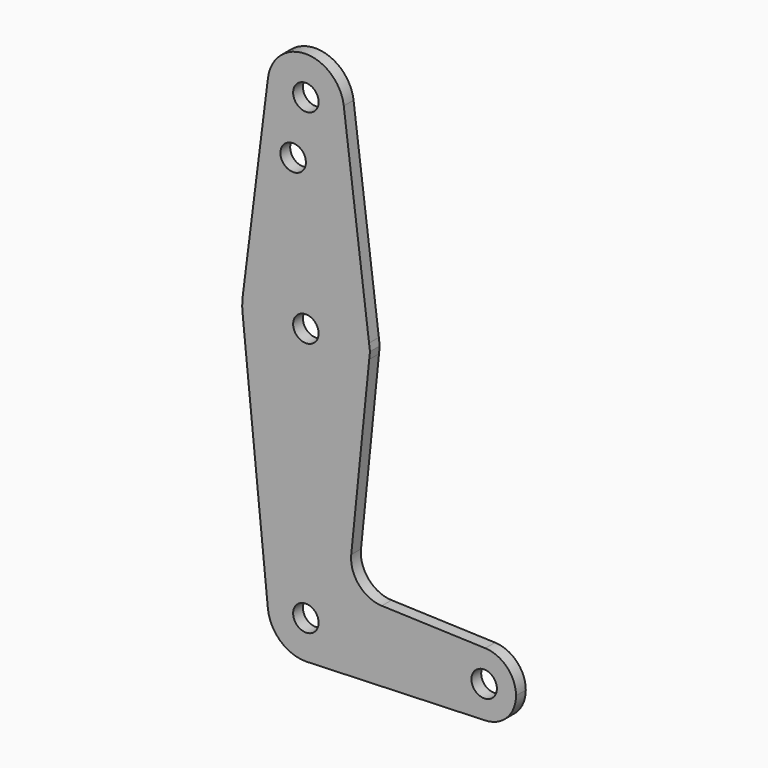
from build123d import *

# Parameters (mm, degrees)
F0_R     = 3.175
F1_DEPTH = 3.048


with BuildPart() as f1:
    # F0 (on Front) → F1 (new body)
    with BuildSketch(Plane.XZ):
        with BuildLine():
            ThreePointArc((-9.450293, 115.490625), (-0.596483, 104.793695), (9.525, 114.3))
            ThreePointArc((9.525, 114.3), (9.506305, 114.896483), (9.450293, 115.490625))
            ThreePointArc((9.450293, 115.490625), (0, 123.825), (-9.450293, 115.490625))
        make_face()
        with Locations((0, 114.3)):
            Circle(F0_R, mode=Mode.SUBTRACT)
        with BuildLine():
            ThreePointArc((9.450293, 115.490625), (9.506305, 114.896483), (9.525, 114.3))
            ThreePointArc((9.525, 114.3), (-0.596483, 104.793695), (-9.450293, 115.490625))
            Line((-9.450293, 115.490625), (-15.750488, 65.484375))
            ThreePointArc((-15.750488, 65.484375), (0, 79.375), (15.750488, 65.484375))
            Line((15.750488, 65.484375), (9.450293, 115.490625))
        make_face()
        with Locations((-3.175, 100.0252)):
            Circle(F0_R, mode=Mode.SUBTRACT)
        with BuildLine():
            Line((15.975946, 63.694861), (15.750488, 65.484375))
            ThreePointArc((15.750488, 65.484375), (15.843841, 64.494139), (15.875, 63.5))
            ThreePointArc((15.875, 63.5), (15.854788, 62.699171), (15.794203, 61.900381))
            Line((15.794203, 61.900381), (15.975946, 63.694861))
        make_face()
        with BuildLine():
            ThreePointArc((15.875, 63.5), (15.843841, 64.494139), (15.750488, 65.484375))
            ThreePointArc((15.750488, 65.484375), (0, 79.375), (-15.750488, 65.484375))
            ThreePointArc((-15.750488, 65.484375), (-15.873744, 63.699705), (-15.795426, 61.9125))
            ThreePointArc((-15.795426, 61.9125), (-0.00609, 47.625001), (15.794203, 61.900381))
            ThreePointArc((15.794203, 61.900381), (15.854788, 62.699171), (15.875, 63.5))
        make_face()
        with Locations((0, 63.5)):
            Circle(F0_R, mode=Mode.SUBTRACT)
        with BuildLine():
            ThreePointArc((15.794203, 61.900381), (-0.00609, 47.625001), (-15.795426, 61.9125))
            Line((-15.795426, 61.9125), (-9.477255, -0.9525))
            ThreePointArc((-9.477255, -0.9525), (-0.476848, 9.513056), (9.525, 0))
            ThreePointArc((9.525, 0), (6.970557, -6.491299), (0.677344, -9.500886))
            Line((0.677344, -9.500886), (44.732405, -7.932475))
            ThreePointArc((44.732405, -7.932475), (36.5125, 0), (44.732405, 7.932475))
            Line((44.732405, 7.932475), (18.934103, 8.850924))
            ThreePointArc((18.934103, 8.850924), (13.224974, 11.57098), (11.307223, 17.59718))
            Line((11.307223, 17.59718), (15.794203, 61.900381))
        make_face()
        with BuildLine():
            ThreePointArc((9.525, 0), (-0.476848, 9.513056), (-9.477255, -0.9525))
            ThreePointArc((-9.477255, -0.9525), (-6.389564, -7.063929), (0, -9.525))
            Line((0, -9.525), (0.677344, -9.500886))
            ThreePointArc((0.677344, -9.500886), (6.970557, -6.491299), (9.525, 0))
        make_face()
        Circle(F0_R, mode=Mode.SUBTRACT)
        with BuildLine():
            Line((0.677344, -9.500886), (0, -9.525))
            ThreePointArc((0, -9.525), (0.338886, -9.51897), (0.677344, -9.500886))
        make_face()
        with BuildLine():
            ThreePointArc((52.3875, 0), (50.161633, 5.51191), (44.732405, 7.932475))
            ThreePointArc((44.732405, 7.932475), (36.5125, 0), (44.732405, -7.932475))
            ThreePointArc((44.732405, -7.932475), (50.161633, -5.51191), (52.3875, 0))
        make_face()
        with Locations((44.45, 0)):
            Circle(F0_R, mode=Mode.SUBTRACT)
    extrude(amount=F1_DEPTH)


solid = f1.part
